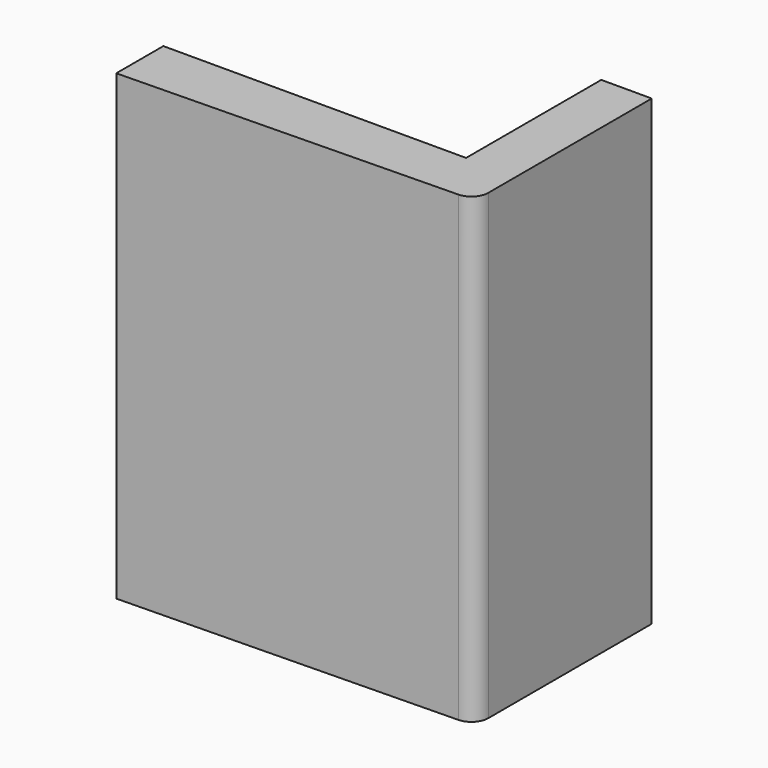
from build123d import *

# Parameters (mm, degrees)
PAD_DEPTH = 27.5


with BuildPart() as part:
    # Sketch → Pad (new body)
    with BuildSketch(Plane.XY):
        with BuildLine():
            Line((0, 0), (0, 10.0498))
            Line((0, 10.0498), (3, 10.0498))
            Line((3, 10.0498), (3, -2.1002))
            ThreePointArc((2.019976, -3.1), (2.714134, -2.800208), (3, -2.1002))
            Line((2.019976, -3.1), (-18, -3.5))
            Line((-18, -3.5), (-18, 0))
            Line((-18, 0), (0, 0))
        make_face()
    extrude(amount=PAD_DEPTH)


solid = part.part
